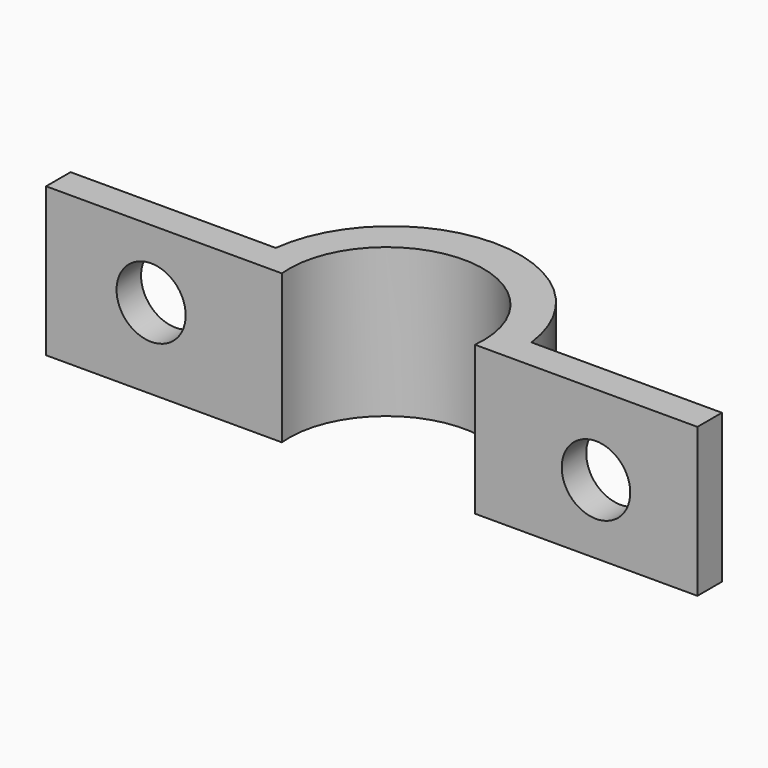
from build123d import *

# Parameters (mm, degrees)
F1_DEPTH = 50
F2_R     = 11.617499
F2_R_2   = 11.51712
F3_DEPTH = 50


with BuildPart() as f1:
    # F0 (on Top) → F1 (new body)
    with BuildSketch(Plane.XY):
        with BuildLine():
            Line((-105.871066, 17.458661), (-174.81038, 17.458661))
            Line((-174.81038, 17.458661), (-174.81038, 7.162532))
            Line((-174.81038, 7.162532), (-95.574938, 7.162532))
            ThreePointArc((-95.574938, 7.162532), (-63.119748, 43.081694), (-30.664558, 7.162532))
            Line((-30.664558, 7.162532), (44.094302, 7.162532))
            Line((44.094302, 7.162532), (44.094302, 17.458661))
            Line((44.094302, 17.458661), (-19.920768, 17.458661))
            ThreePointArc((-19.920768, 17.458661), (-62.895917, 55.517953), (-105.871066, 17.458661))
        make_face()
    extrude(amount=F1_DEPTH)

    # F2 (on face) → F3 (cut)
    with BuildSketch(Plane.XZ.offset(-7.162532)):
        with Locations((-139.510825, 27.076421)):
            Circle(F2_R)
        with Locations((10.005543, 23.205847)):
            Circle(F2_R_2)
    extrude(amount=-F3_DEPTH, mode=Mode.SUBTRACT)


solid = f1.part
